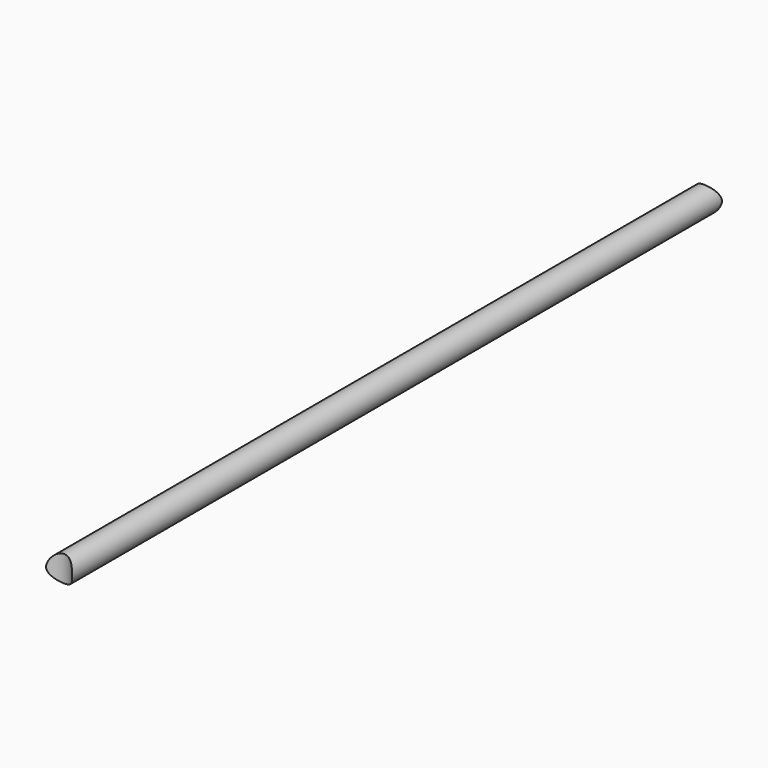
from build123d import *

# Parameters (mm, degrees)
F0_R     = 16.5
F1_DEPTH = 1060
F2_R     = 21
F3_DEPTH = 500
F5_DEPTH = 50


with BuildPart() as f1:
    # F0 (on Front) → F1 (new body)
    with BuildSketch(Plane.XZ):
        Circle(F0_R)
    extrude(amount=F1_DEPTH)

    # F2 (on Top) → F3 (cut, symmetric)
    with BuildSketch(Plane.XY):
        Circle(F2_R)
    extrude(amount=F3_DEPTH, both=True, mode=Mode.SUBTRACT)

    # F4 (on Top) → F5 (cut, symmetric)
    with BuildSketch(Plane.XY):
        with BuildLine():
            Line((-21, -1060), (0, -1060))
            Line((0, -1060), (21, -1060))
            ThreePointArc((21, -1060), (0, -1039), (-21, -1060))
        make_face()
    extrude(amount=F5_DEPTH, both=True, mode=Mode.SUBTRACT)


solid = f1.part
